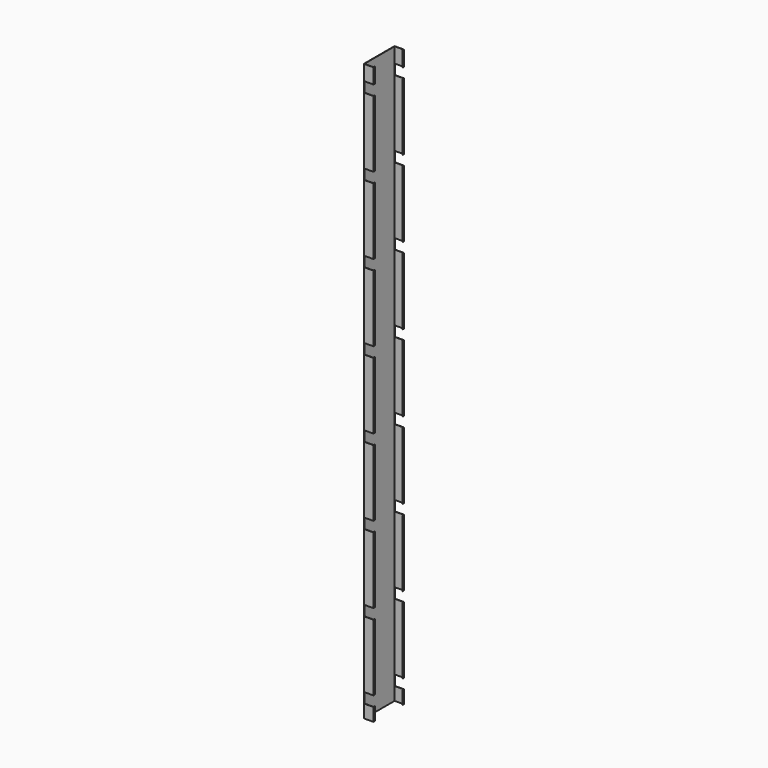
from build123d import *

# Parameters (mm, degrees)
F0_W     = 1.6129
F0_H     = 7.9121
F0_H_2   = 1.6129
F0_W_2   = 47.5742
F0_H_3   = 199.9742
F1_DEPTH = 3048
F2_W     = 47.625
F2_H     = 53.975
F3_DEPTH = 203.201


with BuildPart() as f1:
    # F0 (on Top) → F1 (new body)
    with BuildSketch(Plane.XY):
        with Locations((24.59355, 96.03105)):
            Rectangle(F0_W, F0_H)
        with Locations((24.59355, 100.79355)):
            Rectangle(F0_W, F0_H_2)
        with Locations((0, 100.79355)):
            Rectangle(F0_W_2, F0_H_2)
        with Locations((-24.59355, 0)):
            Rectangle(F0_W, F0_H_3)
        with Locations((-24.59355, 100.79355)):
            Rectangle(F0_W, F0_H_2)
        with Locations((0, -100.79355)):
            Rectangle(F0_W_2, F0_H_2)
        with Locations((-24.59355, -100.79355)):
            Rectangle(F0_W, F0_H_2)
        with Locations((24.59355, -96.03105)):
            Rectangle(F0_W, F0_H)
        with Locations((24.59355, -100.79355)):
            Rectangle(F0_W, F0_H_2)
    extrude(amount=F1_DEPTH)

    # F2 (on face) → F3 (cut, through all)
    with BuildSketch(Plane.XZ.offset(101.6)):
        with Locations((1.5875, 2941.026397)):
            Rectangle(F2_W, F2_H)
        with Locations((1.5875, 2534.626397)):
            Rectangle(F2_W, F2_H)
        with Locations((1.5875, 2128.226397)):
            Rectangle(F2_W, F2_H)
        with Locations((1.5875, 1721.826397)):
            Rectangle(F2_W, F2_H)
        with Locations((1.5875, 1315.426397)):
            Rectangle(F2_W, F2_H)
        with Locations((1.5875, 909.026397)):
            Rectangle(F2_W, F2_H)
        with Locations((1.5875, 502.626397)):
            Rectangle(F2_W, F2_H)
        with Locations((1.5875, 96.226397)):
            Rectangle(F2_W, F2_H)
    extrude(amount=-F3_DEPTH, mode=Mode.SUBTRACT)


solid = f1.part
